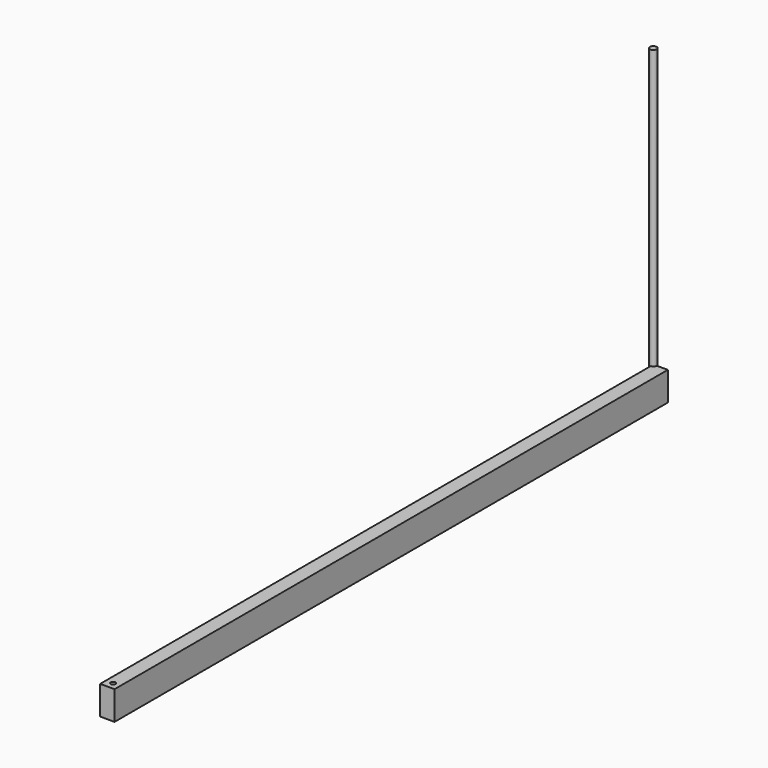
from build123d import *

# Parameters (mm, degrees)
F0_W     = 19.05
F0_H     = 38.1
F1_DEPTH = 914.4
F2_R     = 4.446562
F3_DEPTH = 406.4
F4_R     = 3.175
F5_DEPTH = 38.101
F6_DEPTH = 914.4
F7_DEPTH = 38.101


with BuildPart() as f1:
    # F0 (on Front) → F1 (new body)
    with BuildSketch(Plane.XZ):
        with Locations((9.525, 19.05)):
            Rectangle(F0_W, F0_H)
    extrude(amount=F1_DEPTH)

    # F4 (on face) → F5 (cut, through all)
    with BuildSketch(Plane.XY.offset(38.1)):
        with BuildLine():
            Line((19.05, -914.4), (19.05, -904.875))
            ThreePointArc((19.05, -904.875), (16.260192, -911.610192), (9.525, -914.4))
            Line((9.525, -914.4), (19.05, -914.4))
        make_face()
        with BuildLine():
            ThreePointArc((9.525, -914.4), (2.789808, -911.610192), (0, -904.875))
            Line((0, -904.875), (0, -914.4))
            Line((0, -914.4), (9.525, -914.4))
        make_face()
        with Locations((9.525, -904.875)):
            Circle(F4_R)
    extrude(amount=-F5_DEPTH, mode=Mode.SUBTRACT)


with BuildPart() as f3:
    # F2 (on Top) → F3 (new body)
    with BuildSketch(Plane.XY):
        Circle(F2_R)
    extrude(amount=F3_DEPTH)


with BuildPart() as f6:
    # F0 (on Front) → F6 (new body)
    with BuildSketch(Plane.XZ):
        with Locations((9.525, 19.05)):
            Rectangle(F0_W, F0_H)
    extrude(amount=F6_DEPTH)

    # F4 (on face) → F7 (cut, through all)
    with BuildSketch(Plane.XY.offset(38.1)):
        with Locations((9.525, -904.875)):
            Circle(F4_R)
    extrude(amount=-F7_DEPTH, mode=Mode.SUBTRACT)


solid = Compound([f1.part, f3.part, f6.part])
